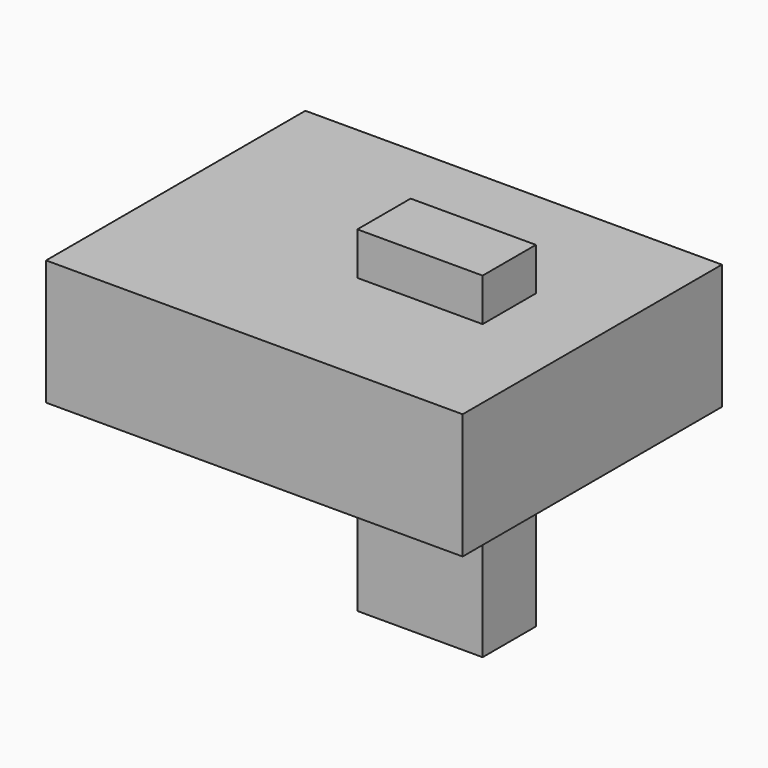
from build123d import *

# Parameters (mm, degrees)
F1_W     = 84.4765
F1_H     = 65.728918
F2_DEPTH = 25.4
F0_W     = 13.509872
F0_H     = 68.137058
F3_DEPTH = 25.4


with BuildPart() as f2:
    # F1 (on Top) → F2 (new body)
    with BuildSketch(Plane.XY):
        Rectangle(F1_W, F1_H)
    extrude(amount=F2_DEPTH)

    # F0 (on Right) → F3 (join)
    with BuildSketch(Plane.YZ):
        Rectangle(F0_W, F0_H)
    extrude(amount=F3_DEPTH)


solid = f2.part
